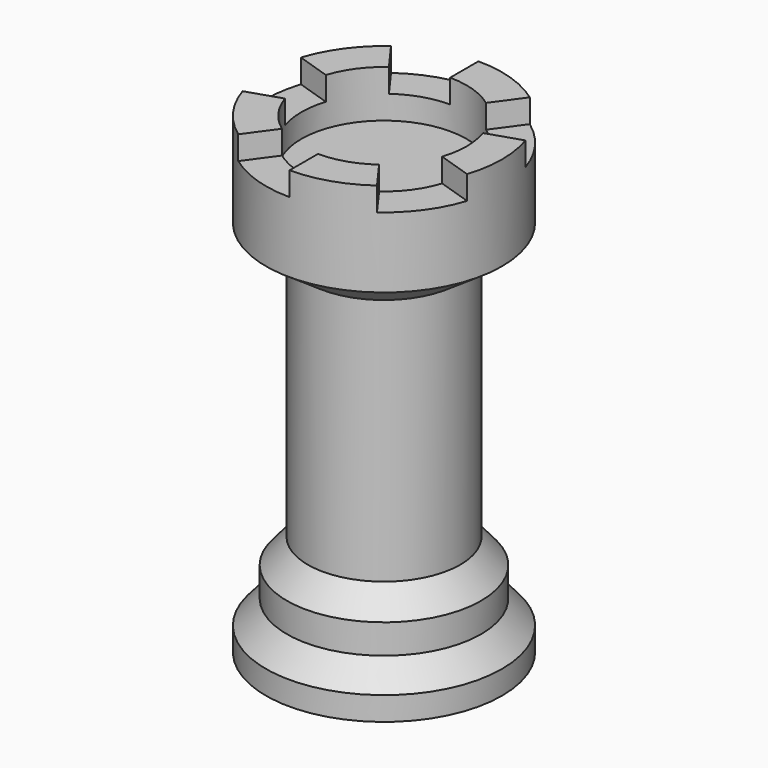
from build123d import *

# Parameters (mm, degrees)
F3_DEPTH = 1.27
F5_DEPTH = 1.27


with BuildPart() as f1:
    # F0 (on Front) → F1 (revolve)
    with BuildSketch(Plane.XZ):
        Polygon((0, 25.4), (0, 0), (6.35, 0), (6.35, 1.27), (5.2246055566, 2.5501165073), (5.2246055566, 4.1312165558), (4.0992111132, 5.4714176804), (4.0992111132, 18.806418404), (6.35, 20.3378521087), (6.35, 25.4), align=None)
    revolve(axis=Axis((0, 0, 12.7), (0, 0, 1)))

    # F2 (on face) → F3 (cut)
    with BuildSketch(Plane.XY.offset(25.4)):
        with BuildLine():
            ThreePointArc((4.2274462149, -1.37358054), (4.3902746739, -0.6953511971), (4.445, 0))
            ThreePointArc((4.445, 0), (4.3902746739, 0.6953511971), (4.2274462149, 1.37358054))
            ThreePointArc((4.2274462149, 1.37358054), (3.59608054, 2.6127054464), (2.6127054464, 3.59608054))
            ThreePointArc((2.6127054464, 3.59608054), (1.37358054, 4.2274462149), (0, 4.445))
            ThreePointArc((0, 4.445), (-1.37358054, 4.2274462149), (-2.6127054464, 3.59608054))
            ThreePointArc((-2.6127054464, 3.59608054), (-3.59608054, 2.6127054464), (-4.2274462149, 1.37358054))
            ThreePointArc((-4.2274462149, 1.37358054), (-4.445, 0), (-4.2274462149, -1.37358054))
            ThreePointArc((-4.2274462149, -1.37358054), (-3.59608054, -2.6127054464), (-2.6127054464, -3.59608054))
            ThreePointArc((-2.6127054464, -3.59608054), (-1.37358054, -4.2274462149), (0, -4.445))
            ThreePointArc((0, -4.445), (1.37358054, -4.2274462149), (2.6127054464, -3.59608054))
            ThreePointArc((2.6127054464, -3.59608054), (3.59608054, -2.6127054464), (4.2274462149, -1.37358054))
        make_face()
        with BuildLine():
            ThreePointArc((-2.6127054464, 3.59608054), (-1.37358054, 4.2274462149), (0, 4.445))
            Line((0, 4.445), (0, 6.35))
            ThreePointArc((0, 6.35), (-1.9622579143, 6.0392088785), (-3.7324363521, 5.1372579143))
            Line((-3.7324363521, 5.1372579143), (-2.6127054464, 3.59608054))
        make_face()
        with BuildLine():
            ThreePointArc((2.6127054464, 3.59608054), (3.59608054, 2.6127054464), (4.2274462149, 1.37358054))
            Line((4.2274462149, 1.37358054), (6.0392088785, 1.9622579143))
            ThreePointArc((6.0392088785, 1.9622579143), (5.1372579143, 3.7324363521), (3.7324363521, 5.1372579143))
            Line((3.7324363521, 5.1372579143), (2.6127054464, 3.59608054))
        make_face()
        with BuildLine():
            Line((6.0392088785, -1.9622579143), (4.2274462149, -1.37358054))
            ThreePointArc((4.2274462149, -1.37358054), (3.59608054, -2.6127054464), (2.6127054464, -3.59608054))
            Line((2.6127054464, -3.59608054), (3.7324363521, -5.1372579143))
            ThreePointArc((3.7324363521, -5.1372579143), (5.1372579143, -3.7324363521), (6.0392088785, -1.9622579143))
        make_face()
        with BuildLine():
            Line((0, -6.35), (0, -4.445))
            ThreePointArc((0, -4.445), (-1.37358054, -4.2274462149), (-2.6127054464, -3.59608054))
            Line((-2.6127054464, -3.59608054), (-3.7324363521, -5.1372579143))
            ThreePointArc((-3.7324363521, -5.1372579143), (-1.9622579143, -6.0392088785), (0, -6.35))
        make_face()
        with BuildLine():
            ThreePointArc((-4.2274462149, -1.37358054), (-4.445, 0), (-4.2274462149, 1.37358054))
            Line((-4.2274462149, 1.37358054), (-6.0392088785, 1.9622579143))
            ThreePointArc((-6.0392088785, 1.9622579143), (-6.35, 0), (-6.0392088785, -1.9622579143))
            Line((-6.0392088785, -1.9622579143), (-4.2274462149, -1.37358054))
        make_face()
    extrude(amount=-F3_DEPTH, mode=Mode.SUBTRACT)

    # F4 (on face) → F5 (cut)
    with BuildSketch(Plane.XY.offset(24.13)):
        with BuildLine():
            ThreePointArc((4.2274462149, -1.37358054), (4.3902746739, -0.6953511971), (4.445, 0))
            ThreePointArc((4.445, 0), (4.3902746739, 0.6953511971), (4.2274462149, 1.37358054))
            ThreePointArc((4.2274462149, 1.37358054), (3.59608054, 2.6127054464), (2.6127054464, 3.59608054))
            ThreePointArc((2.6127054464, 3.59608054), (1.37358054, 4.2274462149), (0, 4.445))
            ThreePointArc((0, 4.445), (-1.37358054, 4.2274462149), (-2.6127054464, 3.59608054))
            ThreePointArc((-2.6127054464, 3.59608054), (-3.59608054, 2.6127054464), (-4.2274462149, 1.37358054))
            ThreePointArc((-4.2274462149, 1.37358054), (-4.445, 0), (-4.2274462149, -1.37358054))
            ThreePointArc((-4.2274462149, -1.37358054), (-3.59608054, -2.6127054464), (-2.6127054464, -3.59608054))
            ThreePointArc((-2.6127054464, -3.59608054), (-1.37358054, -4.2274462149), (0, -4.445))
            ThreePointArc((0, -4.445), (1.37358054, -4.2274462149), (2.6127054464, -3.59608054))
            ThreePointArc((2.6127054464, -3.59608054), (3.59608054, -2.6127054464), (4.2274462149, -1.37358054))
        make_face()
    extrude(amount=-F5_DEPTH, mode=Mode.SUBTRACT)


solid = f1.part
